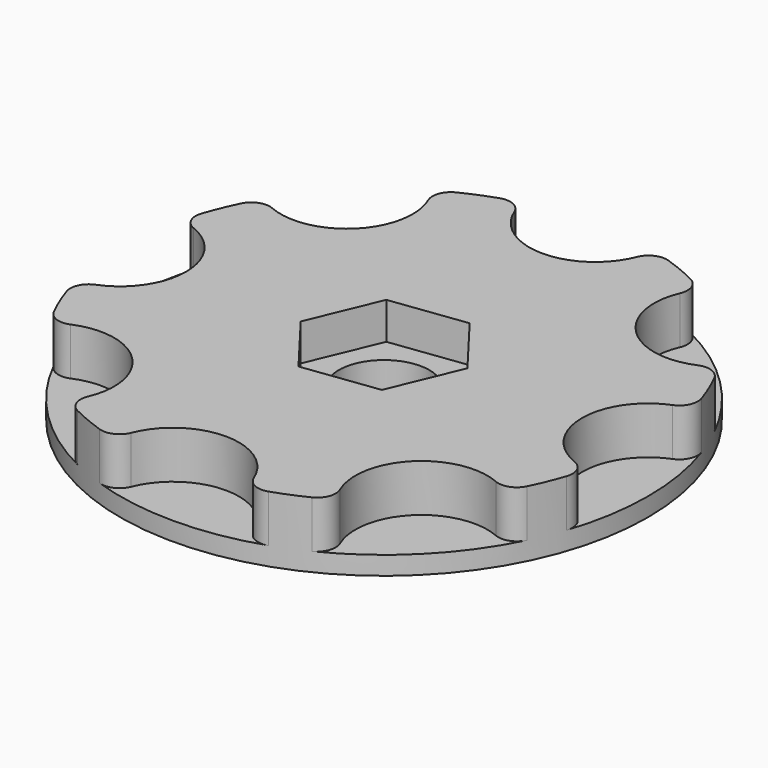
from build123d import *

# Parameters (mm, degrees)
F0_R     = 25.4
F0_R_2   = 4.365625
F1_DEPTH = 6.35
F2_R     = 4.365625
F3_DEPTH = 3.556
F4_R     = 6.35
F5_DEPTH = 4.572
F6_R     = 1.778


with BuildPart() as f1:
    # F0 (on Top) → F1 (new body)
    with BuildSketch(Plane.XY):
        Circle(F0_R)
        Circle(F0_R_2, mode=Mode.SUBTRACT)
    extrude(amount=F1_DEPTH)

    # F2 (on face) → F3 (cut)
    with BuildSketch(Plane.XY.offset(6.35)):
        Polygon((-7.2721104093, -0.9379464422), (-2.8237697583, -6.7668055747), (4.448340651, -5.8288591325), (7.2721104093, 0.9379464422), (2.8237697583, 6.7668055747), (-4.448340651, 5.8288591325), align=None)
        Circle(F2_R, mode=Mode.SUBTRACT)
    extrude(amount=-F3_DEPTH, mode=Mode.SUBTRACT)

    # F4 (on face) → F5 (cut)
    with BuildSketch(Plane.XY.offset(6.35)):
        with Locations((0, 25.4)):
            Circle(F4_R)
        with Locations((-17.9605122421, 17.9605122421)):
            Circle(F4_R)
        with Locations((-25.4, 0)):
            Circle(F4_R)
        with Locations((-17.9605122421, -17.9605122421)):
            Circle(F4_R)
        with Locations((0, -25.4)):
            Circle(F4_R)
        with Locations((17.9605122421, -17.9605122421)):
            Circle(F4_R)
        with Locations((25.4, 0)):
            Circle(F4_R)
        with Locations((17.9605122421, 17.9605122421)):
            Circle(F4_R)
    extrude(amount=-F5_DEPTH, mode=Mode.SUBTRACT)

    # F6
    f6_edges = [f1.edges().sort_by_distance(p)[0] for p in [
        (21.854157, -12.944335, 4.064),
        (12.944335, -21.854157, 4.064),
        (24.60625, -6.300195, 4.064),
        (24.60625, 6.300195, 4.064),
        (12.944335, 21.854157, 4.064),
        (21.854157, 12.944335, 4.064),
        (6.300195, -24.60625, 4.064),
        (-6.300195, -24.60625, 4.064),
        (-6.300195, 24.60625, 4.064),
        (6.300195, 24.60625, 4.064),
        (-21.854157, 12.944335, 4.064),
        (-12.944335, 21.854157, 4.064),
        (-24.60625, -6.300195, 4.064),
        (-24.60625, 6.300195, 4.064),
        (-12.944335, -21.854157, 4.064),
        (-21.854157, -12.944335, 4.064),
    ]]
    fillet(f6_edges, radius=F6_R)


solid = f1.part
